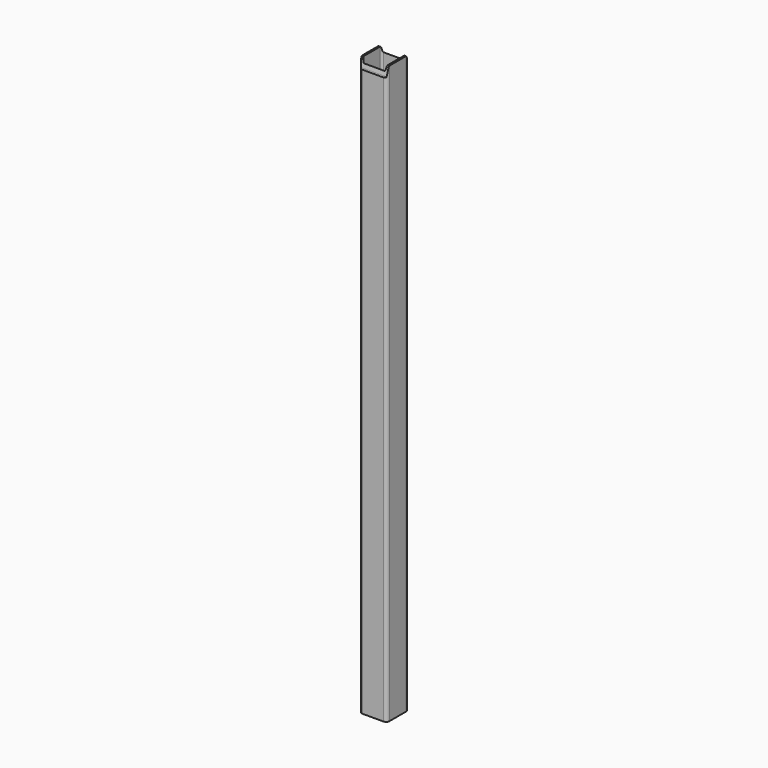
from build123d import *

# Parameters (mm, degrees)
F1_DEPTH      = 3200.4
F3_DEPTH      = 76.201
F3_DEPTH_BACK = 76.201


with BuildPart() as f1:
    # F0 (on Top) → F1 (new body)
    with BuildSketch(Plane.XY):
        with BuildLine():
            ThreePointArc((-76.2, -57.15), (-70.6203841816, -70.6203841816), (-57.15, -76.2))
            Line((-57.15, -76.2), (57.15, -76.2))
            ThreePointArc((57.15, -76.2), (70.6203841816, -70.6203841816), (76.2, -57.15))
            Line((76.2, -57.15), (76.2, 57.15))
            ThreePointArc((76.2, 57.15), (70.6203841816, 70.6203841816), (57.15, 76.2))
            Line((57.15, 76.2), (-57.15, 76.2))
            ThreePointArc((-57.15, 76.2), (-70.6203841816, 70.6203841816), (-76.2, 57.15))
            Line((-76.2, 57.15), (-76.2, -57.15))
        make_face()
        with BuildLine():
            Line((57.15, -66.675), (-57.15, -66.675))
            ThreePointArc((-57.15, -66.675), (-63.8851920908, -63.8851920908), (-66.675, -57.15))
            Line((-66.675, -57.15), (-66.675, 57.15))
            ThreePointArc((-66.675, 57.15), (-63.8851920908, 63.8851920908), (-57.15, 66.675))
            Line((-57.15, 66.675), (57.15, 66.675))
            ThreePointArc((57.15, 66.675), (63.8851920908, 63.8851920908), (66.675, 57.15))
            Line((66.675, 57.15), (66.675, -57.15))
            ThreePointArc((66.675, -57.15), (63.8851920908, -63.8851920908), (57.15, -66.675))
        make_face(mode=Mode.SUBTRACT)
    extrude(amount=F1_DEPTH)

    # F2 (on Right) → F3 (cut, two sides)
    with BuildSketch(Plane.YZ) as f3_sk:
        with BuildLine():
            Line((76.2, 3200.4), (-76.2, 3200.4))
            Line((-76.2, 3200.4), (-76.2, 3136.9762))
            ThreePointArc((-76.2, 3136.9762), (-72.5743206269, 3138.2979308857), (-70.6498874673, 3141.6429391766))
            Line((-70.6498874673, 3141.6429391766), (-63.1248861925, 3184.8336652708))
            ThreePointArc((-63.1248861925, 3184.8336652708), (-59.95278176, 3190.3473489097), (-53.9764590421, 3192.526))
            Line((-53.9764590421, 3192.526), (53.9764590421, 3192.526))
            ThreePointArc((53.9764590421, 3192.526), (59.95278176, 3190.3473489097), (63.1248861925, 3184.8336652708))
            Line((63.1248861925, 3184.8336652708), (70.6498874673, 3141.6429391766))
            ThreePointArc((70.6498874673, 3141.6429391766), (72.5743206269, 3138.2979308857), (76.2, 3136.9762))
            Line((76.2, 3136.9762), (76.2, 3200.4))
        make_face()
    extrude(amount=-F3_DEPTH, mode=Mode.SUBTRACT)
    extrude(f3_sk.sketch, amount=F3_DEPTH_BACK, mode=Mode.SUBTRACT)


solid = f1.part
